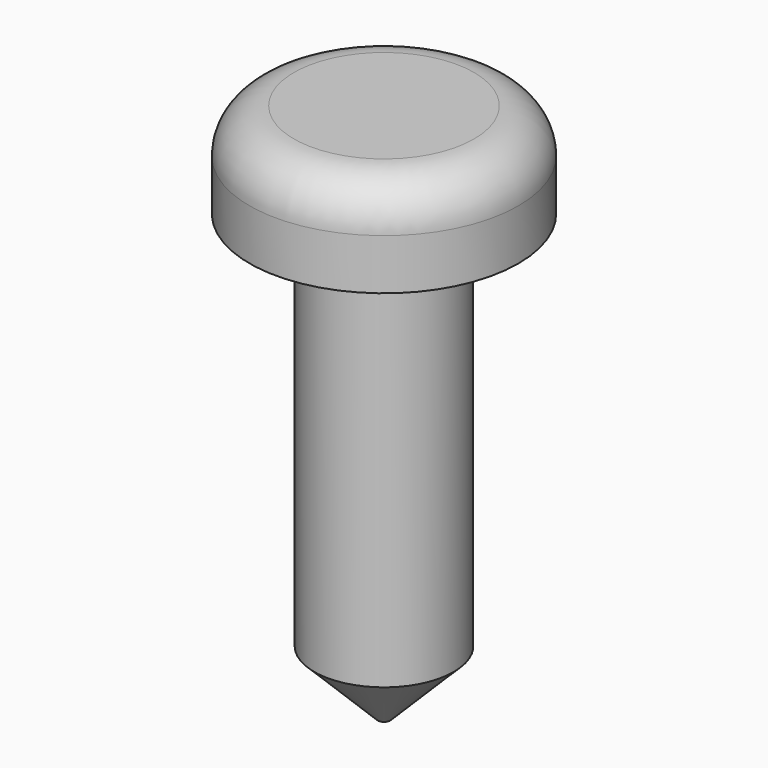
from build123d import *

# Parameters (mm, degrees)
F0_R     = 2.6924
F1_DEPTH = 1.905
F2_R     = 0.889
F3_R     = 1.397
F4_DEPTH = 8.89
F5_SIZE  = 1.27


with BuildPart() as f1:
    # F0 (on Top) → F1 (new body)
    with BuildSketch(Plane.XY):
        Circle(F0_R)
    extrude(amount=F1_DEPTH)

    # F2
    f2_edges = [f1.edges().sort_by_distance(p)[0] for p in [
        (-2.6924, 0, 1.905),
    ]]
    fillet(f2_edges, radius=F2_R)

    # F3 (on Top) → F4 (join)
    with BuildSketch(Plane.XY):
        Circle(F3_R)
    extrude(amount=-F4_DEPTH)

    # F5
    f5_edges = [f1.edges().sort_by_distance(p)[0] for p in [
        (-1.397, 0, -8.89),
    ]]
    chamfer(f5_edges, length=F5_SIZE)


solid = f1.part
